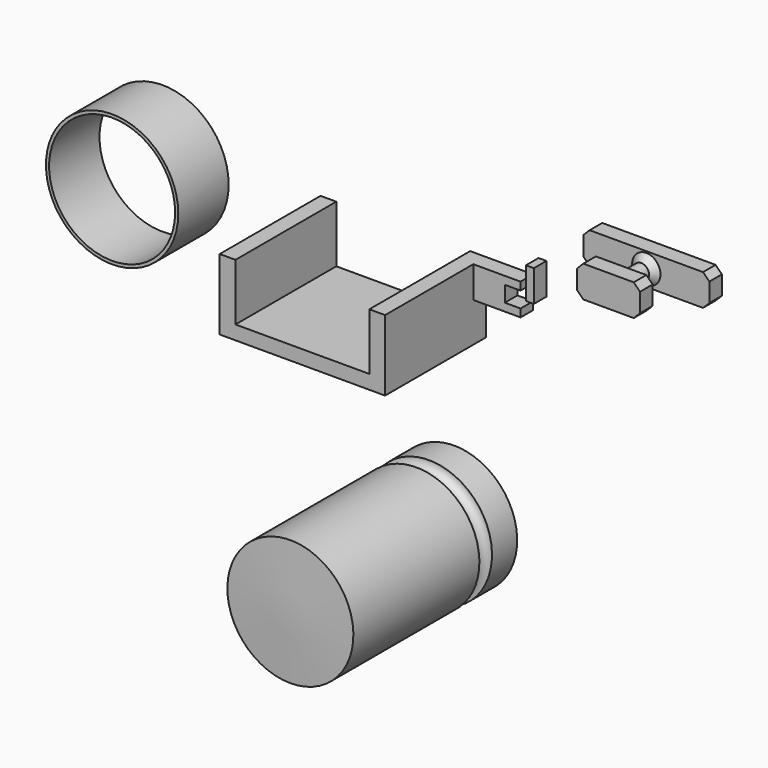
from build123d import *

# Parameters (mm, degrees)
F1_DEPTH  = 101.6
F2_R      = 53.34
F2_R_2    = 50.8
F3_DEPTH  = 50.8
F4_W      = 101.6
F4_H      = 25.4
F5_DEPTH  = 12.7
F6_R      = 6.35
F7_DEPTH  = 25.4
F8_W      = 50.8
F8_H      = 25.4
F9_DEPTH  = 12.7
F10_SIZE  = 5.08
F11_DEPTH = 12.7
F12_W     = 6.35
F12_H     = 25.4
F13_DEPTH = 12.7


with BuildPart() as f1:
    # F0 (on Front) → F1 (new body)
    with BuildSketch(Plane.XZ):
        Polygon((-55.021855, -48.101832), (-55.021855, -2.223082), (-67.721855, -2.223082), (-67.721855, -59.373082), (65.628145, -59.373082), (65.628145, -27.623082), (65.628145, -2.223082), (52.928145, -2.223082), (52.928145, -48.101832), align=None)
    extrude(amount=F1_DEPTH)

    # F0 (on Front) → F11 (join)
    with BuildSketch(Plane.XZ):
        Polygon((103.728145, -2.223082), (65.628145, -2.223082), (65.628145, -27.623082), (103.728145, -27.623082), (103.728145, -21.273082), (91.028145, -21.273082), (91.028145, -8.573082), (103.728145, -8.573082), align=None)
    extrude(amount=F11_DEPTH)


with BuildPart() as f3:
    # F2 (on Front) → F3 (new body)
    with BuildSketch(Plane.XZ):
        with Locations((-195.122302, -18.345457)):
            Circle(F2_R)
        with Locations((-195.122302, -18.345457)):
            Circle(F2_R_2, mode=Mode.SUBTRACT)
    extrude(amount=F3_DEPTH)


with BuildPart() as f5:
    # F4 (on Front) → F5 (new body)
    with BuildSketch(Plane.XZ):
        with Locations((205.126122, 39.699358)):
            Rectangle(F4_W, F4_H)
    extrude(amount=F5_DEPTH)

    # F6 (on face) → F7 (join)
    with BuildSketch(Plane.XZ.offset(12.7)):
        with Locations((205.126122, 39.699358)):
            Circle(F6_R)
    extrude(amount=F7_DEPTH)

    # F8 (on face) → F9 (join)
    with BuildSketch(Plane.XZ.offset(38.1)):
        with Locations((205.126122, 39.699358)):
            Rectangle(F8_W, F8_H)
    extrude(amount=F9_DEPTH)

    # F10
    f10_edges = [f5.edges().sort_by_distance(p)[0] for p in [
        (154.326122, -6.35, 52.399358),
        (154.326122, -6.35, 26.999358),
        (179.726122, -44.45, 26.999358),
        (179.726122, -44.45, 52.399358),
        (230.526122, -44.45, 52.399358),
        (255.926122, -6.35, 52.399358),
        (255.926122, -6.35, 26.999358),
        (230.526122, -44.45, 26.999358),
        (198.776122, -12.7, 39.699358),
        (198.776122, -38.1, 39.699358),
    ]]
    chamfer(f10_edges, length=F10_SIZE)


with BuildPart() as f13:
    # F12 (on Front) → F13 (new body)
    with BuildSketch(Plane.XZ):
        with Locations((111.236603, -1.890229)):
            Rectangle(F12_W, F12_H)
    extrude(amount=F13_DEPTH)


with BuildPart() as f15:
    # F14 (on Right) → F15 (revolve)
    with BuildSketch(Plane.YZ):
        with BuildLine():
            Line((-117.091149, -228.6), (-115.032727, -279.4))
            Line((-115.032727, -279.4), (11.967273, -279.4))
            ThreePointArc((11.967273, -279.4), (18.317273, -272.831512), (24.667273, -279.4))
            Line((24.667273, -279.4), (50.067273, -279.4))
            Line((50.067273, -279.4), (50.067273, -228.6))
            Line((50.067273, -228.6), (-117.091149, -228.6))
        make_face()
    revolve(axis=Axis((0, -33.511938, -228.6), (0, -1, 0)))


solid = Compound([f1.part, f3.part, f5.part, f13.part, f15.part])
